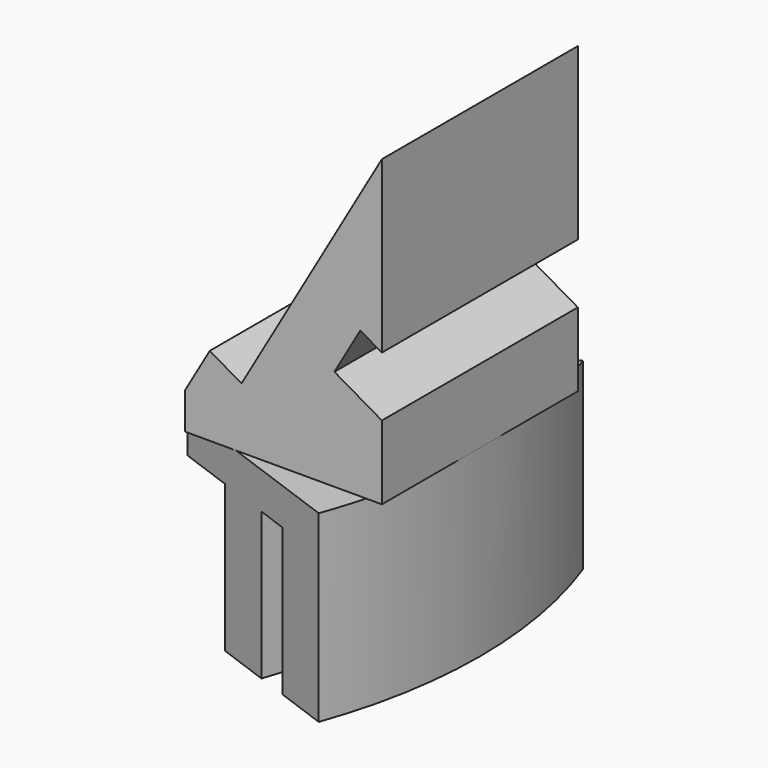
from build123d import *

# Parameters (mm, degrees)
F1_ANGLE = 40
F2_DEPTH = 12.7
F3_DEPTH = 12.7


with BuildPart() as f1:
    # F0 (on Front) → F1 (revolve, symmetric)
    with BuildSketch(Plane.XZ) as f1_sk:
        Polygon((14.551543, -6.304409), (-5.839557, -6.304409), (-5.839557, -10.114409), (0, -10.114409), (0, -25.354409), (5.637471, -25.354409), (5.637471, -10.114409), (8.914071, -10.114409), (8.914071, -25.354409), (14.551543, -25.354409), (14.551543, -10.114409), align=None)
    revolve(axis=Axis((-35.485129, 0, -12.677205), (0, 0, 1)), revolution_arc=F1_ANGLE / 2)
    revolve(f1_sk.sketch, axis=Axis((-35.485129, 0, -12.677205), (0, 0, -1)), revolution_arc=F1_ANGLE / 2)

    # F0 (on Front) → F2 (join)
    with BuildSketch(Plane.XZ):
        Polygon((14.551543, 25.204011), (0, 0), (-3.299557, 1.905), (-5.839557, -2.494409), (-5.839557, -6.304409), (14.551543, -6.304409), (14.551543, 1.351308), (9.63061, 4.19241), (12.312471, 8.837529), (14.551543, 7.544801), align=None)
    extrude(amount=F2_DEPTH)

    # F0 (on Front) → F3 (join)
    with BuildSketch(Plane.XZ):
        Polygon((14.551543, 25.204011), (0, 0), (-3.299557, 1.905), (-5.839557, -2.494409), (-5.839557, -6.304409), (14.551543, -6.304409), (14.551543, 1.351308), (9.63061, 4.19241), (12.312471, 8.837529), (14.551543, 7.544801), align=None)
    extrude(amount=-F3_DEPTH)


solid = f1.part
